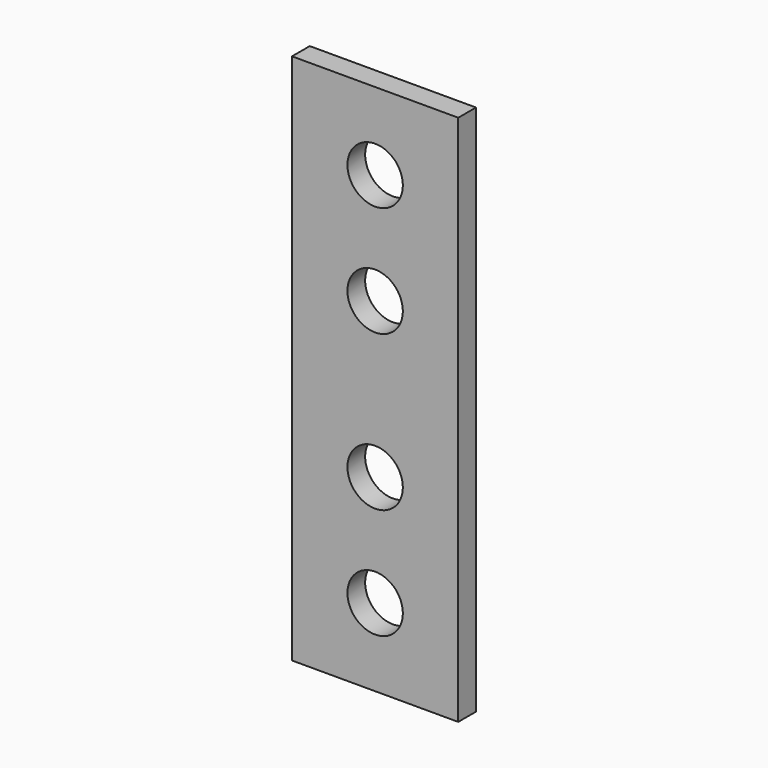
from build123d import *

# Parameters (mm, degrees)
SKETCH_W            = 15
SKETCH_H            = 48
PAD_DEPTH           = 2
SKETCH001_R         = 2.5
POCKET_DEPTH        = 2.001
LINEARPATTERN_COUNT = 2
LINEARPATTERN_PITCH = 24


with BuildPart() as part:
    # Sketch → Pad (new body)
    with BuildSketch(Plane.XZ):
        with Locations((7.5, 24)):
            Rectangle(SKETCH_W, SKETCH_H)
    extrude(amount=PAD_DEPTH)

    # Sketch001 (on Face6 of Pad) → Pocket (cut, through all)
    with BuildSketch(Plane.XZ.offset(2)):
        with Locations((7.5, 7)):
            Circle(SKETCH001_R)
        with Locations((7.5, 17)):
            Circle(SKETCH001_R)
    pocket = extrude(amount=-POCKET_DEPTH, mode=Mode.SUBTRACT)

    # LinearPattern: Pocket ×2
    with Locations(*[(0, 0, i * LINEARPATTERN_PITCH) for i in range(1, LINEARPATTERN_COUNT)]):
        add(pocket, mode=Mode.SUBTRACT)


solid = part.part
